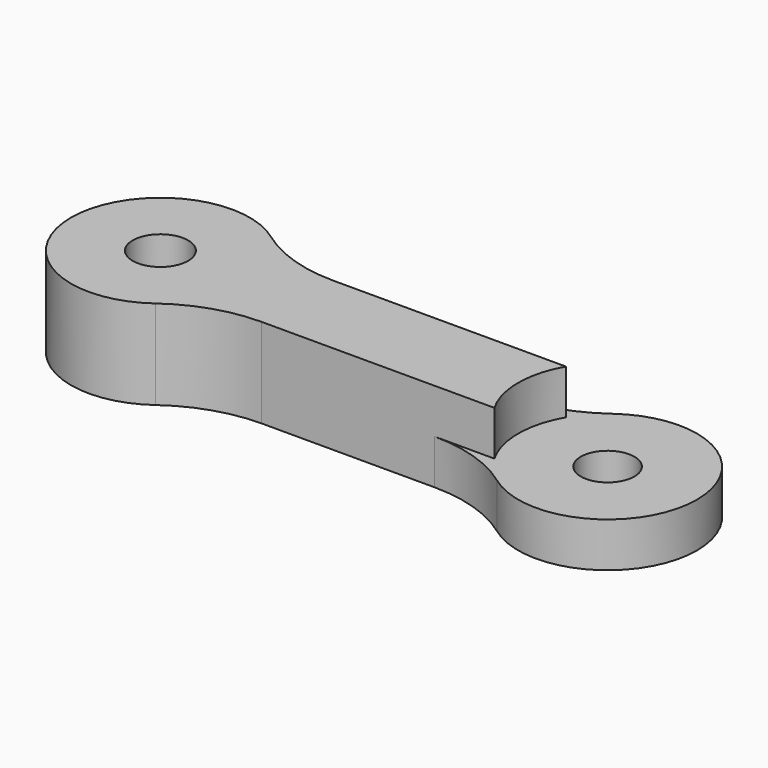
from build123d import *

# Parameters (mm, degrees)
SKETCH_R      = 1.55
SKETCH_R_2    = 1.5
EXTRUDE_DEPTH = 5
SKETCH001_R   = 5
POCKET_DEPTH  = 2.5
FILLET_R      = 8


with BuildPart() as part:
    # Sketch → Extrude (new body)
    with BuildSketch(Plane.XY):
        with BuildLine():
            ThreePointArc((-8.169873, 2.5), (-17.5, 0), (-8.169873, -2.5))
            Line((8.169873, -2.5), (-8.169873, -2.5))
            ThreePointArc((8.169873, -2.5), (17.5, 0), (8.169873, 2.5))
            Line((-8.169873, 2.5), (8.169873, 2.5))
        make_face()
        with Locations((-12.5, 0)):
            Circle(SKETCH_R, mode=Mode.SUBTRACT)
        with Locations((12.5, 0)):
            Circle(SKETCH_R_2, mode=Mode.SUBTRACT)
    extrude(amount=EXTRUDE_DEPTH)

    # Sketch001 → Pocket (cut)
    with BuildSketch(Plane.XY.offset(5)):
        with Locations((12.5, 0)):
            Circle(SKETCH001_R)
    extrude(amount=-POCKET_DEPTH, mode=Mode.SUBTRACT)

    # Fillet
    fillet_edges = [part.edges().sort_by_distance(p)[0] for p in [
        (-8.169873, 2.5, 2.5),
        (-8.169873, -2.5, 2.5),
        (8.169873, 2.5, 1.25),
        (8.169873, -2.5, 1.25),
    ]]
    fillet(fillet_edges, radius=FILLET_R)


solid = part.part
